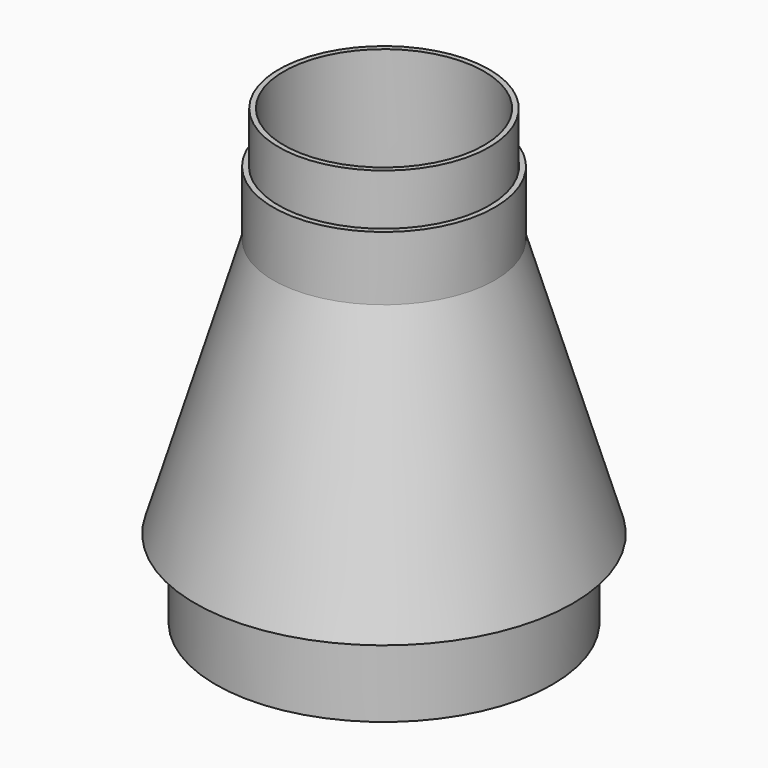
from build123d import *

# Parameters (mm, degrees)
F0_W   = 1.5191692636
F0_H   = 15.0828957558
F0_W_2 = 1.0024315159
F0_H_2 = 9.863063693


with BuildPart() as f1:
    # F0 (on Front) → F1 (revolve)
    with BuildSketch(Plane.XZ):
        Polygon((36.4248545221, 0), (21.3932929025, 50), (21.3932929025, 62.3753145337), (20.3490806933, 62.3753145337), (20.3490806933, 59.1916404665), (20.32, 59.1916404665), (20.32, 59.2419579625), (20.3073, 59.2419579625), (19.3048684841, 56.1876572669), (19.3048684841, 50), (30.9293307364, 11.333151716), (32.4485, 6.2798867857), (34.3364301037, 0), align=None)
        Polygon((32.4485, 0), (34.3364301037, 0), (32.4485, 6.2798867857), align=None)
        Polygon((32.4485, 0), (32.4485, 6.2798867857), (30.9293307364, 11.333151716), (30.9293307364, 0), align=None)
        with Locations((31.6889153682, -7.5414478779)):
            Rectangle(F0_W, F0_H)
        with Locations((19.806084242, 67.3068463802)):
            Rectangle(F0_W_2, F0_H_2)
        Polygon((20.3073, 59.2419579625), (20.3073, 62.3753145337), (19.3048684841, 62.3753145337), (19.3048684841, 56.1876572669), align=None)
    revolve(axis=Axis((0, 0, 25), (0, 0, 1)))


solid = f1.part
